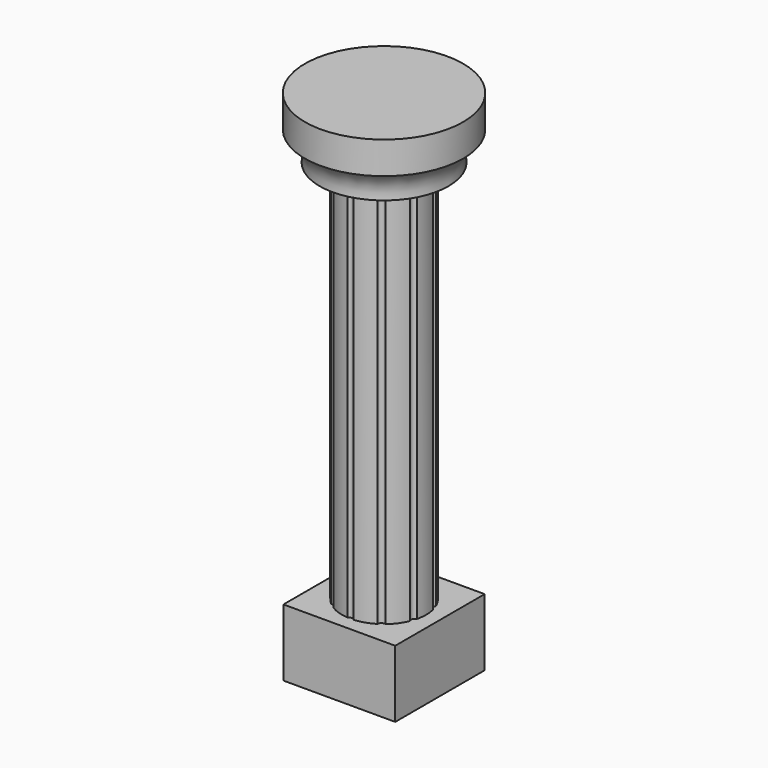
from build123d import *

# Parameters (mm, degrees)
F0_W      = 6.35
F0_H      = 6.35
F1_DEPTH  = 3.81
F2_R      = 2.3894248051
F3_DEPTH  = 25.4
F8_R      = 0.2232162281
F9_DEPTH  = 25.4
F10_R     = 2.7317429941
F11_DEPTH = 3.4770822
F12_W     = 5.8086237404
F12_H     = 6.0867127031
F13_DEPTH = 25.4


with BuildPart() as f1:
    # F0 (on Top) → F1 (new body)
    with BuildSketch(Plane.XY):
        with Locations((2.5444868952, -10.8615327454)):
            Rectangle(F0_W, F0_H)
    extrude(amount=F1_DEPTH)

    # F2 (on face) → F3 (join)
    with BuildSketch(Plane.XY.offset(3.81)):
        with Locations((2.5444868952, -10.8615327454)):
            Circle(F2_R)
    extrude(amount=F3_DEPTH)


with BuildPart() as f1_1:
    # F4: moved
    add(f1.part.moved(Location((-2.4892, 10.8204, 0))))

    # F5 (on Front) → F6 (revolve)
    with BuildSketch(Plane.XZ):
        with BuildLine():
            Line((3.715344239, 29.1360206902), (2.3982734419, 29.1360206902))
            Line((2.3982734419, 29.1360206902), (2.3982734419, 25.658948347))
            Line((2.3982734419, 25.658948347), (3.715344239, 25.658948347))
            ThreePointArc((3.715344239, 25.658948347), (3.8481047551, 26.626173701), (4.5479801483, 27.3068532688))
            Line((4.5479801483, 27.3068532688), (4.5479801483, 29.1360206902))
            Line((4.5479801483, 29.1360206902), (3.715344239, 29.1360206902))
        make_face()
    revolve(axis=Axis((0.0552868952, -0.0411327454, 29.21), (0, 0, 1)))


with BuildPart() as f1_2:
    # F7: moved
    add(f1_1.part.moved(Location((-0.0508, 0.0508, 0))))

    # F8 (on face) → F9 (cut)
    with BuildSketch(Plane.XY.offset(29.21)):
        with BuildLine():
            ThreePointArc((0.2196997185, 2.5085243013), (-0.06466925, 2.7232003988), (-0.1932256967, 2.3908981612))
            ThreePointArc((-0.1932256967, 2.3908981612), (-0.0028015905, 2.2853092181), (0.1869422498, 2.3921157731))
            ThreePointArc((0.1869422498, 2.3921157731), (0.2113543474, 2.4480594413), (0.2196997185, 2.5085243013))
        make_face()
        with Locations((-1.4773185054, 2.027371838)):
            Circle(F8_R)
        with Locations((-2.3868350443, 0.7718322405)):
            Circle(F8_R)
        with Locations((-2.3846617218, -0.7785210393)):
            Circle(F8_R)
        with Locations((-1.4716286733, -2.031505743)):
            Circle(F8_R)
        with Locations((0.0035165096, -2.5085243013)):
            Circle(F8_R)
        with Locations((1.4773185054, -2.027371838)):
            Circle(F8_R)
        with Locations((2.3868350443, -0.7718322405)):
            Circle(F8_R)
        with Locations((2.3846617218, 0.7785210393)):
            Circle(F8_R)
        with Locations((1.4716286733, 2.031505743)):
            Circle(F8_R)
    extrude(amount=-F9_DEPTH, mode=Mode.SUBTRACT)

    # F10 (on face) → F11 (join)
    with BuildSketch(Plane.XY.offset(29.1360206902)):
        Circle(F10_R)
    extrude(amount=-F11_DEPTH)

    # F12 (on face) → F13 (cut)
    with BuildSketch(Plane.XY.offset(29.1360206902)):
        with Locations((0.0104332576, 0.1239965204)):
            Rectangle(F12_W, F12_H)
    extrude(amount=F13_DEPTH, mode=Mode.SUBTRACT)


solid = f1_2.part
